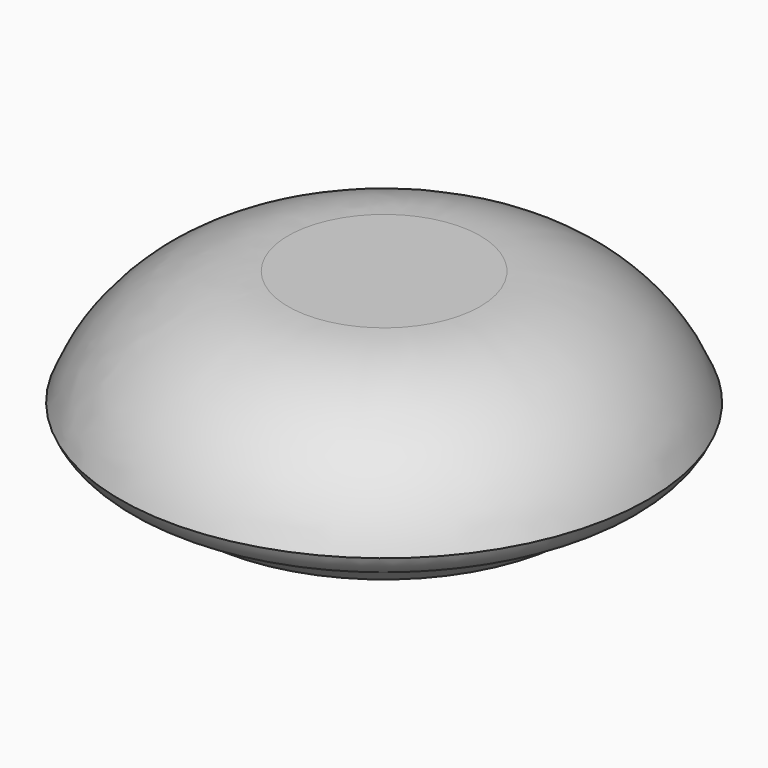
from build123d import *


with BuildPart() as f1:
    # F0 (on Front) → F1 (revolve)
    with BuildSketch(Plane.XZ):
        Polygon((16, -14.3), (0, -14.3), (0, -19.3), align=None)
        Polygon((19, -12), (0, -12), (0, -14.3), (16, -14.3), align=None)
        with BuildLine():
            Line((8, 0), (0, 0))
            Line((0, 0), (0, -12))
            Line((0, -12), (19, -12))
            ThreePointArc((19, -12), (20.804265, -11.190114), (22, -9.614835))
            ThreePointArc((22, -9.614835), (16.491835, -2.635182), (8, 0))
        make_face()
    revolve(axis=Axis((0, 0, -9.65), (0, 0, 1)))


solid = f1.part
